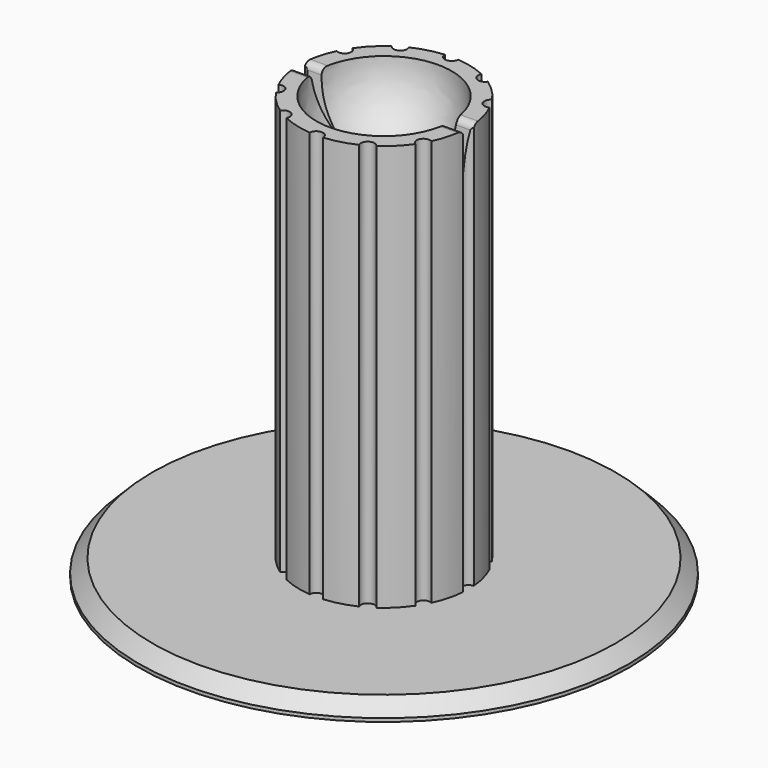
from build123d import *

# Parameters (mm, degrees)
CYLINDER_R         = 25
CYLINDER_DEPTH     = 120
SKETCH_R           = 2
POCKET_DEPTH       = 398.568766
POLARPATTERN_COUNT = 12
POCKET001_DEPTH    = 25
FILLET_R           = 2
SKETCH004_R        = 72.386687
PAD_DEPTH          = 5
CHAMFER_SIZE       = 4
SKETCH016_R        = 4
POCKET006_DEPTH    = 100


with BuildPart() as part:
    # Cylinder → Cylinder (join)
    with BuildSketch(Plane.XY):
        Circle(CYLINDER_R)
    extrude(amount=CYLINDER_DEPTH)

    # Sketch → Pocket (cut, through all)
    with BuildSketch(Plane.XY):
        with Locations((-25, 0)):
            Circle(SKETCH_R)
    pocket = extrude(amount=POCKET_DEPTH, mode=Mode.SUBTRACT)

    # PolarPattern: Pocket ×12 about axis
    polarpattern_axis = Axis((0, 0, 0), (0, 0, 1))
    for i in range(1, POLARPATTERN_COUNT):
        add(pocket.rotate(polarpattern_axis, i * 360 / POLARPATTERN_COUNT), mode=Mode.SUBTRACT)

    # Sketch001 → Groove (revolve, cut)
    with BuildSketch(Plane.XZ):
        with BuildLine():
            ThreePointArc((-20, 120), (-14.142136, 105.857864), (0, 100))
            Line((0, 120), (0, 100))
            Line((-20, 120), (0, 120))
        make_face()
    revolve(axis=Axis((0, 0, 0), (0, 0, 1)), mode=Mode.SUBTRACT)

    # Sketch002 → Pocket001 (cut, symmetric)
    with BuildSketch(Plane.YZ):
        Polygon((-2, 120), (0, 104.808492), (2, 120), align=None)
    extrude(amount=POCKET001_DEPTH, both=True, mode=Mode.SUBTRACT)

    # Fillet
    fillet_edges = [part.edges().sort_by_distance(p)[0] for p in [
        (-22.40981, 2, 120),
        (-22.40981, -2, 120),
        (22.40981, 2, 120),
        (22.40981, -2, 120),
    ]]
    fillet(fillet_edges, radius=FILLET_R)

    # Sketch004 (on Face6 of Fillet) → Pad (join)
    with BuildSketch(Plane(origin=(0, 0, 0), x_dir=(1, 0, 0), z_dir=(0, 0, -1))):
        Circle(SKETCH004_R)
    extrude(amount=PAD_DEPTH)

    # Chamfer
    chamfer_edges = [part.edges().sort_by_distance(p)[0] for p in [
        (-72.386687, 0, 0),
    ]]
    chamfer(chamfer_edges, length=CHAMFER_SIZE)

    # Sketch016 (on Face3 of Chamfer) → Pocket006 (cut)
    with BuildSketch(Plane(origin=(0, 0, -5), x_dir=(1, 0, 0), z_dir=(0, 0, -1))):
        Circle(SKETCH016_R)
    extrude(amount=-POCKET006_DEPTH, mode=Mode.SUBTRACT)


with BuildPart() as part_1:
    # Body placement: moved
    add(part.part.moved(Location((0, 0, 5))))


solid = part_1.part
